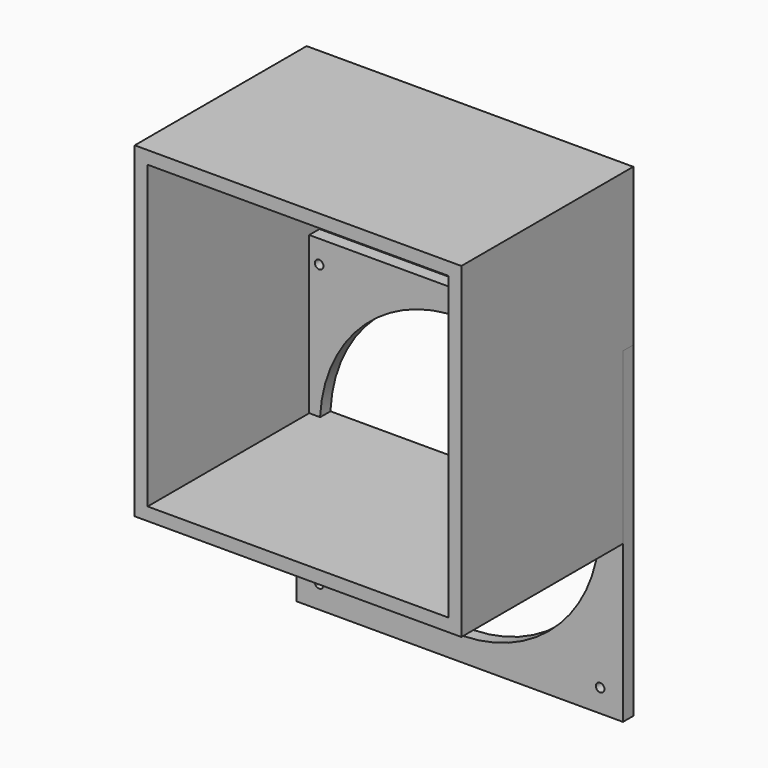
from build123d import *

# Parameters (mm, degrees)
F0_W     = 140
F0_H     = 6
F1_DEPTH = 100
F2_W     = 152
F2_H     = 152
F2_R     = 65
F3_DEPTH = 6


with BuildPart() as f1:
    # F0 (on Front) → F1 (new body)
    with BuildSketch(Plane.XZ):
        Polygon((-70, -3), (-70, 3), (-70, 143), (-70, 149), (-76, 149), (-76, -3), align=None)
        with Locations((0, 146)):
            Rectangle(F0_W, F0_H)
        Polygon((70, 143), (70, 3), (70, -3), (76, -3), (76, 149), (70, 149), align=None)
        Rectangle(F0_W, F0_H)
    extrude(amount=F1_DEPTH)


with BuildPart() as f3:
    # F2 (on Front) → F3 (new body)
    with BuildSketch(Plane.XZ):
        Rectangle(F2_W, F2_H)
        with BuildLine():
            ThreePointArc((-63.393398, -65.393398), (-64.628031, -67.241157), (-66.807612, -66.807612))
            ThreePointArc((-66.807612, -66.807612), (-66.158765, -63.545639), (-63.393398, -65.393398))
        make_face(mode=Mode.SUBTRACT)
        with BuildLine():
            ThreePointArc((67.393398, -65.393398), (67.241157, -66.158765), (66.807612, -66.807612))
            ThreePointArc((66.807612, -66.807612), (63.545639, -64.628031), (67.393398, -65.393398))
        make_face(mode=Mode.SUBTRACT)
        with BuildLine():
            ThreePointArc((-63.393398, 65.393398), (-66.158765, 63.545639), (-66.807612, 66.807612))
            ThreePointArc((-66.807612, 66.807612), (-64.628031, 67.241157), (-63.393398, 65.393398))
        make_face(mode=Mode.SUBTRACT)
        Circle(F2_R, mode=Mode.SUBTRACT)
        with BuildLine():
            ThreePointArc((67.393398, 65.393398), (63.545639, 64.628031), (66.807612, 66.807612))
            ThreePointArc((66.807612, 66.807612), (67.241157, 66.158765), (67.393398, 65.393398))
        make_face(mode=Mode.SUBTRACT)
    extrude(amount=F3_DEPTH)


solid = Compound([f1.part, f3.part])
